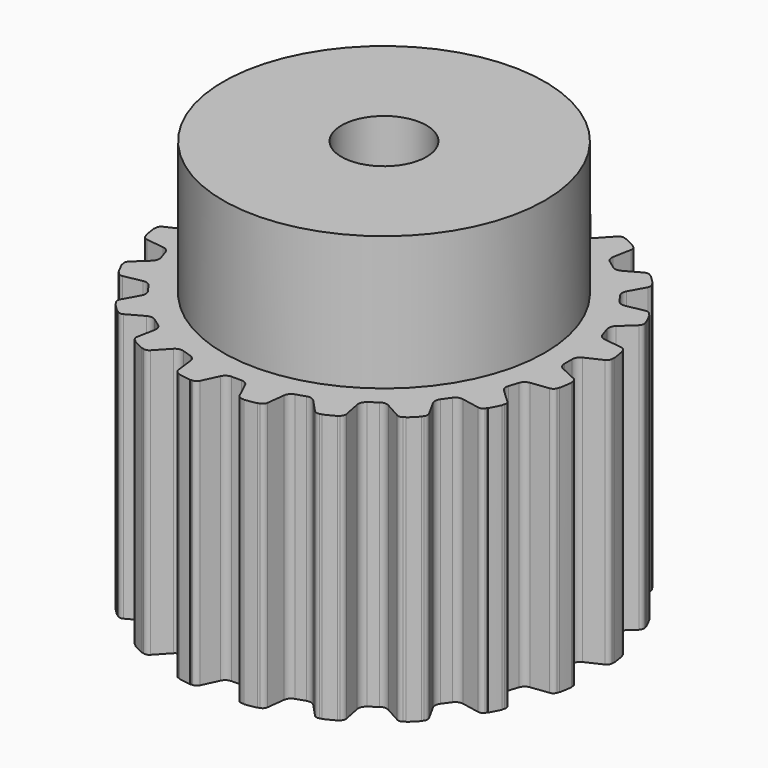
from build123d import *

# Parameters (mm, degrees)
SKETCH_R           = 15.7
PAD_DEPTH          = 20
POCKET_DEPTH       = 20
POLARPATTERN_COUNT = 20
SKETCH003_R        = 12
PAD001_DEPTH       = 10
SKETCH001_R        = 3.175
POCKET001_DEPTH    = 30


with BuildPart() as part:
    # Sketch → Pad (new body)
    with BuildSketch(Plane.XY.offset(20)):
        Circle(SKETCH_R)
    extrude(amount=PAD_DEPTH)

    # Sketch002 → Pocket (cut)
    with BuildSketch(Plane.XY.offset(40)):
        with BuildLine():
            ThreePointArc((-1.48, 15.319049), (-1.627604, 15.487358), (-1.842524, 15.55))
            Line((-1.842524, 15.55), (-2, 15.55))
            Line((-2, 17), (-2, 15.55))
            Line((-2, 17), (2, 17))
            Line((2, 17), (2, 15.55))
            Line((1.842524, 15.55), (2, 15.55))
            ThreePointArc((1.842524, 15.55), (1.627604, 15.487358), (1.48, 15.319049))
            Line((1.48, 15.319049), (0.909881, 14.096424))
            ThreePointArc((0.366098, 13.75), (0.688476, 13.843964), (0.909881, 14.096424))
            Line((-0.366098, 13.75), (0.366098, 13.75))
            ThreePointArc((-0.909881, 14.096424), (-0.688476, 13.843964), (-0.366098, 13.75))
            Line((-1.48, 15.319049), (-0.909881, 14.096424))
        make_face()
    pocket = extrude(amount=-POCKET_DEPTH, mode=Mode.SUBTRACT)

    # PolarPattern: Pocket ×20 about axis
    polarpattern_axis = Axis((0, 0, 40), (0, 0, 1))
    for i in range(1, POLARPATTERN_COUNT):
        add(pocket.rotate(polarpattern_axis, i * 360 / POLARPATTERN_COUNT), mode=Mode.SUBTRACT)

    # Sketch003 → Pad001 (new body)
    with BuildSketch(Plane.XY.offset(40)):
        Circle(SKETCH003_R)
    extrude(amount=PAD001_DEPTH)

    # Sketch001 → Pocket001 (cut)
    with BuildSketch(Plane.XY.offset(50)):
        Circle(SKETCH001_R)
    extrude(amount=-POCKET001_DEPTH, mode=Mode.SUBTRACT)


solid = part.part
